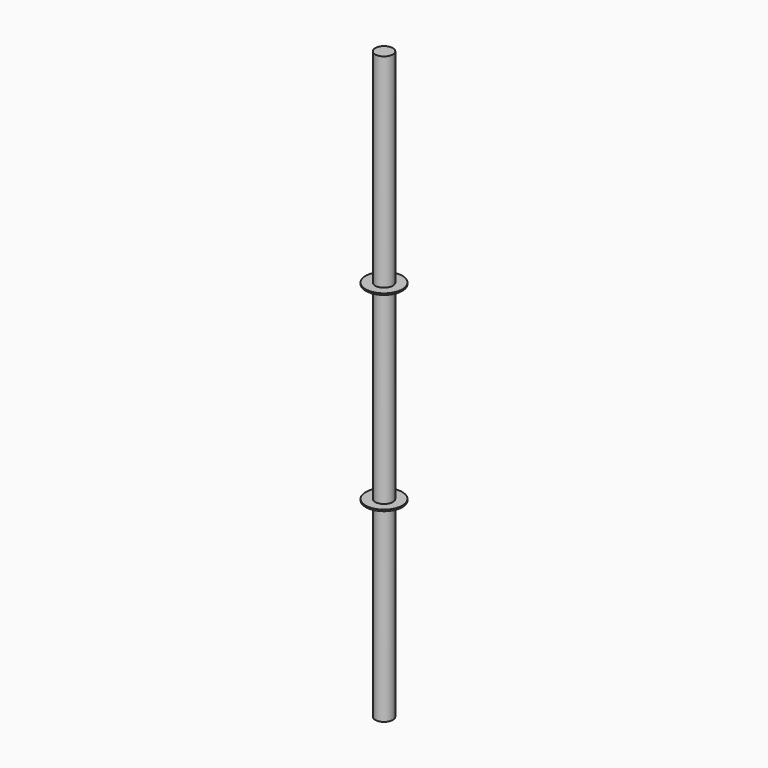
from build123d import *

# Parameters (mm, degrees)
SKETCH019_R  = 6
PAD010_DEPTH = 400
SKETCH071_R  = 12.5
PAD_DEPTH    = 1
SKETCH_R     = 12.5
PAD011_DEPTH = 1


with BuildPart() as part:
    # Sketch019 → Pad010 (new body)
    with BuildSketch(Plane.XY):
        Circle(SKETCH019_R)
    extrude(amount=-PAD010_DEPTH)

    # Sketch071 (on Face2 of Pad010) → Pad (join)
    with BuildSketch(Plane.XY.offset(-270)):
        Circle(SKETCH071_R)
    extrude(amount=PAD_DEPTH)

    # Sketch (on Face2 of Pad) → Pad011 (join)
    with BuildSketch(Plane.XY.offset(-140)):
        Circle(SKETCH_R)
    extrude(amount=PAD011_DEPTH)


with BuildPart() as part_1:
    # Body007 placement: moved
    add(part.part.moved(Location((3, 54.9, 405.8))))


solid = part_1.part
